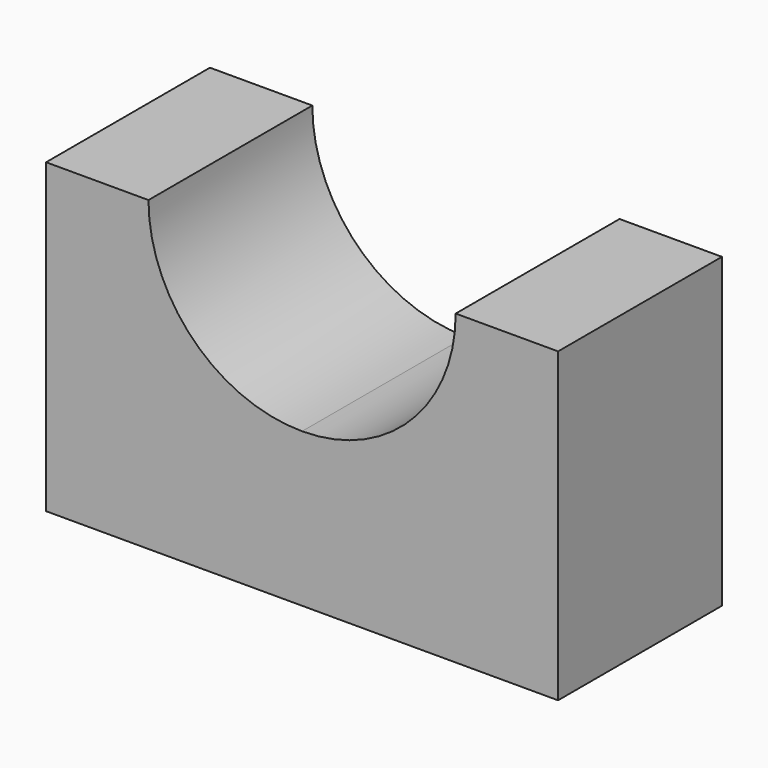
from build123d import *

# Parameters (mm, degrees)
F0_W     = 63.5
F0_H     = 38.1
F1_DEPTH = 25.4
F3_DEPTH = 25.401


with BuildPart() as f1:
    # F0 (on Front) → F1 (new body)
    with BuildSketch(Plane.XZ):
        with Locations((-38.936033, 29.149372)):
            Rectangle(F0_W, F0_H)
    extrude(amount=F1_DEPTH)

    # F2 (on face) → F3 (cut, through all)
    with BuildSketch(Plane.XZ.offset(25.4)):
        with BuildLine():
            Line((-19.886033, 48.199372), (-57.986033, 48.199372))
            ThreePointArc((-57.986033, 48.199372), (-52.406417, 34.728988), (-38.936033, 29.149372))
            ThreePointArc((-38.936033, 29.149372), (-25.465649, 34.728988), (-19.886033, 48.199372))
        make_face()
    extrude(amount=-F3_DEPTH, mode=Mode.SUBTRACT)


solid = f1.part
